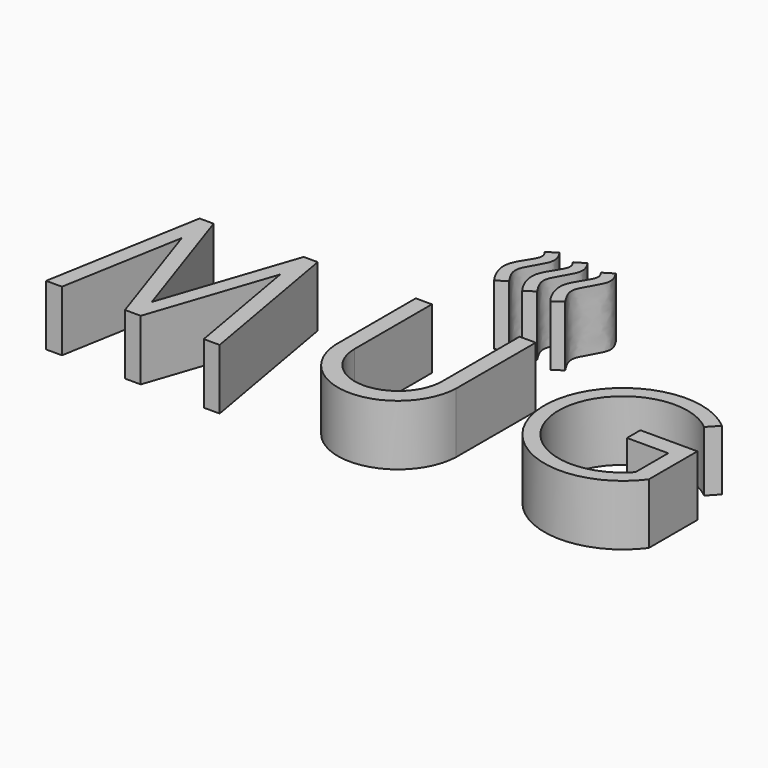
from build123d import *

# Parameters (mm, degrees)
F1_DEPTH = 5


with BuildPart() as f1:
    # F0 (on Top) → F1 (new body)
    with BuildSketch(Plane.XY):
        Polygon((-21.5786790927, 7.467948366), (-22.7388322805, 7.467948366), (-25.0340236803, -5.5416743271), (-23.7198919965, -5.5416743271), (-21.9284930243, 4.6120621264), (-18.5057642846, -5.5416743271), (-17.2005520178, -5.5416743271), (-13.7776314257, 4.6120621264), (-11.9862305908, -5.5416743271), (-10.6721068363, -5.5416743271), (-12.9673324977, 7.467948366), (-14.1276714844, 7.467948366), (-17.8531811093, -3.5832603462), align=None)
    extrude(amount=F1_DEPTH)


with BuildPart() as f1b:
    # F0 (on Top) → F1, piece 2 (new body)
    with BuildSketch(Plane.XY):
        with BuildLine():
            Line((-3.5150047368, 7.467948366), (-4.8504956092, 7.467948366))
            Line((-4.8504956092, 7.467948366), (-4.8504956092, -0.8150014946))
            ThreePointArc((-4.8504956092, -0.8150014946), (0.1333450821, -5.5416059747), (5.067300892, -0.7629515603))
            Line((5.067300892, -0.7629515603), (5.0732250349, 7.467948366))
            Line((5.0732250349, 7.467948366), (3.7401448028, 7.467948366))
            Line((3.7401448028, 7.467948366), (3.7401448028, -0.526181655))
            ThreePointArc((3.7401448028, -0.526181655), (0.112570033, -4.1537564248), (-3.5150047368, -0.526181655))
            Line((-3.5150047368, -0.526181655), (-3.5150047368, 7.467948366))
        make_face()
    extrude(amount=F1_DEPTH)


with BuildPart() as f1c:
    # F0 (on Top) → F1, piece 3 (new body)
    with BuildSketch(Plane.XY):
        with BuildLine():
            ThreePointArc((21.4267385223, -2.6619257999), (12.1702430072, 0.6311876273), (20.9468259269, 5.0469432273))
            Line((20.9468259269, 5.0469432273), (21.7368428626, 5.9009301617))
            ThreePointArc((21.7368428626, 5.9009301617), (11.0387314281, 0.2324106833), (22.7323340003, -2.9046835494))
            Line((22.7323340003, -2.9046835494), (22.7325333034, 2.1210856853))
            Line((22.7325333034, 2.1210856853), (18.011914355, 2.1210856853))
            Line((18.011914355, 2.1210856853), (18.011914355, 0.7342459052))
            Line((18.011914355, 0.7342459052), (21.4267385223, 0.7342459052))
            Line((21.4267385223, 0.7342459052), (21.4267385223, -2.6619257999))
        make_face()
    extrude(amount=F1_DEPTH)


with BuildPart() as f1d:
    # F0 (on Top) → F1, piece 4 (new body)
    with BuildSketch(Plane.XY):
        with BuildLine():
            Line((3.0693569244, 18.2559140958), (2.2414493398, 17.7537132986))
            add(Edge.make_bspline(
                [(2.2414493398, 17.7537132986), (2.2599919723, 17.6987205632), (2.9524971433, 16.9781940353), (0.6802018522, 14.9656995494), (1.859915292, 13.0051726103), (2.1948068427, 12.5717944466)],
                knots=[0, 0, 0, 0, 0.2032399197, 0.6071054215, 1, 1, 1, 1], degree=3))
            Line((2.1948068427, 12.5717944466), (2.990305333, 13.1242028438))
            add(Edge.make_bspline(
                [(3.0693569244, 18.2559140958), (3.114149815, 18.1336426176), (4.0349946493, 17.0319569138), (1.7903811181, 14.7935746608), (2.6649999456, 13.6530040763), (2.990305333, 13.1242028438)],
                knots=[0, 0, 0, 0, 0.264062889, 0.6695137425, 1, 1, 1, 1], degree=3))
        make_face()
    extrude(amount=F1_DEPTH)


with BuildPart() as f1e:
    # F0 (on Top) → F1, piece 5 (new body)
    with BuildSketch(Plane.XY):
        with BuildLine():
            Line((0.7467026846, 18.2559140958), (-0.0812128162, 17.7537132986))
            add(Edge.make_bspline(
                [(-0.0812128162, 17.7537132986), (-0.0599809898, 17.6963363774), (0.6272570502, 16.9806336422), (-1.6419783817, 14.9648828927), (-0.4629439318, 13.0051763463), (-0.1280494942, 12.5717944466)],
                knots=[0, 0, 0, 0, 0.2032165532, 0.6071020345, 1, 1, 1, 1], degree=3))
            Line((-0.1280494942, 12.5717944466), (0.6674517901, 13.1242028438))
            add(Edge.make_bspline(
                [(0.7467026846, 18.2559140958), (0.7915099986, 18.1336032459), (1.7068821832, 17.0290268034), (-0.5367836065, 14.7910556084), (0.34222667, 13.6528735977), (0.6674517901, 13.1242028438)],
                knots=[0, 0, 0, 0, 0.2641479178, 0.6695952881, 1, 1, 1, 1], degree=3))
        make_face()
    extrude(amount=F1_DEPTH)


with BuildPart() as f1f:
    # F0 (on Top) → F1, piece 6 (new body)
    with BuildSketch(Plane.XY):
        with BuildLine():
            Line((-1.5763529553, 18.2561124675), (-2.4042717157, 17.7539023571))
            add(Edge.make_bspline(
                [(-2.4042717157, 17.7539023571), (-2.3843572451, 17.7010013722), (-1.6945717303, 16.976400791), (-3.9649355469, 14.9667301398), (-2.7860082662, 13.0053763278), (-2.4511125846, 12.5719928183)],
                knots=[0, 0, 0, 0, 0.2032391985, 0.6071005751, 1, 1, 1, 1], degree=3))
            Line((-2.4511125846, 12.5719928183), (-1.65561456, 13.1242028438))
            add(Edge.make_bspline(
                [(-1.5763529553, 18.2561124675), (-1.5315447766, 18.1337992574), (-0.6166401411, 17.0289341306), (-2.8602318883, 14.7910492711), (-1.980842263, 13.6528777963), (-1.65561456, 13.1242028438)],
                knots=[0, 0, 0, 0, 0.2641530151, 0.6695926641, 1, 1, 1, 1], degree=3))
        make_face()
    extrude(amount=F1_DEPTH)


solid = Compound([f1.part, f1b.part, f1c.part, f1d.part, f1e.part, f1f.part])
